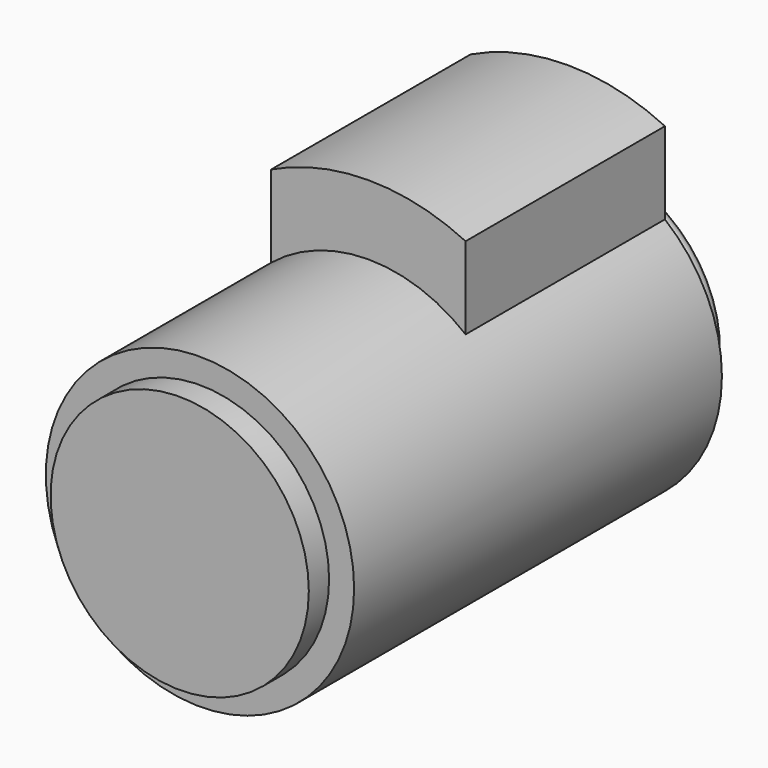
from build123d import *

# Parameters (mm, degrees)
F0_R     = 18.2499
F1_DEPTH = 58.1914
F2_R     = 19.634702
F2_R_2   = 18.2499
F2_R_3   = 15.205931
F3_DEPTH = 0.762
F5_DEPTH = 29.5
F8_R     = 19.976594
F8_R_2   = 18.2499
F8_R_3   = 15.287579
F9_DEPTH = 3


with BuildPart() as f1:
    # F0 (on Front) → F1 (new body)
    with BuildSketch(Plane.XZ):
        Circle(F0_R)
    extrude(amount=F1_DEPTH)

    # F2 (on face) → F3 (cut)
    with BuildSketch(Plane(origin=(0, 0, 0), x_dir=(-1, 0, 0), z_dir=(0, 1, 0))):
        Circle(F2_R)
        Circle(F2_R_2, mode=Mode.SUBTRACT)
        Circle(F2_R_2)
        Circle(F2_R_3, mode=Mode.SUBTRACT)
    extrude(amount=-F3_DEPTH, mode=Mode.SUBTRACT)

    # F4 (on face) → F5 (join)
    with BuildSketch(Plane(origin=(0, -0.762, 0), x_dir=(-1, 0, 0), z_dir=(0, 1, 0))):
        with BuildLine():
            Line((-11.5062, 23.877125), (-11.5062, 14.16567))
            ThreePointArc((-11.5062, 14.16567), (0, 18.2499), (11.5062, 14.16567))
            Line((11.5062, 14.16567), (11.5062, 23.877125))
            ThreePointArc((11.5062, 23.877125), (0, 26.5049), (-11.5062, 23.877125))
        make_face()
    extrude(amount=-F5_DEPTH)

    # F6 (on Right) → F7 (revolve)
    with BuildSketch(Plane.YZ):
        with BuildLine():
            Line((5, 0), (5, 8.995168))
            Line((5, 8.995168), (3.803917, 8.995168))
            Line((3.803917, 8.995168), (3.803917, 13.773475))
            ThreePointArc((3.803917, 13.773475), (2.572395, 15.004997), (1.340872, 13.773475))
            Line((1.340872, 13.773475), (0, 13.773475))
            Line((0, 13.773475), (0, 0))
            Line((0, 0), (5, 0))
        make_face()
    revolve(axis=Axis((0, 0.08472, 0), (0, 1, 0)))

    # F8 (on face) → F9 (cut)
    with BuildSketch(Plane.XZ.offset(58.1914)):
        Circle(F8_R)
        Circle(F8_R_2, mode=Mode.SUBTRACT)
        Circle(F8_R_2)
        Circle(F8_R_3, mode=Mode.SUBTRACT)
    extrude(amount=-F9_DEPTH, mode=Mode.SUBTRACT)


solid = f1.part
